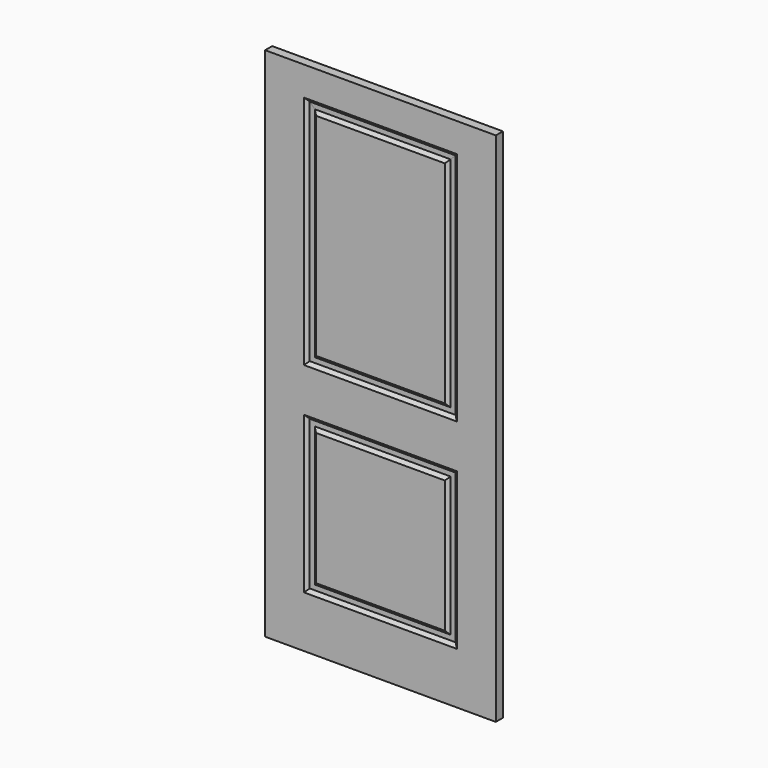
from build123d import *

# Parameters (mm, degrees)
F0_W      = 908.05
F0_H      = 34.925
F1_DEPTH  = 2032
F2_W      = 601.726
F2_H      = 615.442
F3_DEPTH  = 34.926
F8_DEPTH  = 926.592
F9_DEPTH  = 615.442
F11_DEPTH = 34.926
F13_DEPTH = 908.05
F15_DEPTH = 34.926
F17_W     = 506.7300000006
F17_H     = 34.925
F18_DEPTH = 831.596
F19_W     = 506.7300000008
F19_H     = 34.925
F20_DEPTH = 520.446


with BuildPart() as f1:
    # F0 (on Top) → F1 (new body)
    with BuildSketch(Plane.XY):
        with Locations((-454.025, 17.4625)):
            Rectangle(F0_W, F0_H)
    extrude(amount=F1_DEPTH)

    # F2 (on Front) → F3 (cut, through all)
    with BuildSketch(Plane.XZ):
        Polygon((-754.888, 1917.446), (-754.888, 990.854), (-153.162, 990.854), (-153.162, 1917.446), (-454.025, 1917.446), align=None)
        with Locations((-454.025, 510.921)):
            Rectangle(F2_W, F2_H)
    extrude(amount=-F3_DEPTH, mode=Mode.SUBTRACT)

    # F6 (on face) → F8 (join, through all)
    with BuildSketch(Plane(origin=(0, 0, 1917.446), x_dir=(1, 0, 0), z_dir=(0, 0, -1))):
        Polygon((-200.66, -17.4625), (-200.66, -34.925), (-186.8149014921, -24.003), (-176.911, -24.003), (-167.0070985079, -24.003), (-153.162, -34.925), (-153.162, -17.4625), (-153.162, 0), (-167.0070985079, -10.922), (-176.911, -10.922), (-186.8149014921, -10.922), (-200.66, 0), align=None)
        Polygon((-741.0429014921, -24.003), (-731.139, -24.003), (-721.2350985079, -24.003), (-707.39, -34.925), (-707.39, -17.4625), (-707.39, 0), (-721.2350985079, -10.922), (-731.139, -10.922), (-741.0429014921, -10.922), (-754.888, 0), (-754.888, -17.4625), (-754.888, -34.925), align=None)
    extrude(amount=F8_DEPTH)

    # F7 (on face) → F9 (join, through all)
    with BuildSketch(Plane.XY.offset(203.2)):
        Polygon((-200.66, 34.925), (-200.66, 17.4625), (-200.66, 0), (-186.8149014921, 10.922), (-176.911, 10.922), (-167.0070985079, 10.922), (-153.162, 0), (-153.162, 17.4625), (-153.162, 34.925), (-167.0070985079, 24.003), (-176.911, 24.003), (-186.8149014921, 24.003), align=None)
        Polygon((-721.2350985079, 24.003), (-731.139, 24.003), (-741.0429014921, 24.003), (-754.888, 34.925), (-754.888, 17.4625), (-754.888, 0), (-741.0429014921, 10.922), (-731.139, 10.922), (-721.2350985079, 10.922), (-707.39, 0), (-707.39, 17.4625), (-707.39, 34.925), align=None)
    extrude(amount=F9_DEPTH)

    # F10 (on Front) → F11 (cut, through all)
    with BuildSketch(Plane.XZ):
        Polygon((-754.888, 1917.446), (-454.025, 1616.583), (-153.162, 1917.446), (-200.66, 1917.446), (-707.39, 1917.446), align=None)
        Polygon((-153.162, 990.854), (-454.025, 1291.717), (-754.888, 990.854), (-200.66, 990.854), align=None)
        Polygon((-153.162, 818.642), (-200.66, 818.642), (-707.39, 818.642), (-754.888, 818.642), (-454.025, 517.779), align=None)
        Polygon((-754.888, 203.2), (-200.66, 203.2), (-153.162, 203.2), (-454.025, 504.063), align=None)
    extrude(amount=-F11_DEPTH, mode=Mode.SUBTRACT)


with BuildPart() as f13:
    # F12 (on Right) → F13 (new body, through all)
    with BuildSketch(Plane.YZ):
        Polygon((34.925, 1917.446), (0, 1917.446), (10.9219999999, 1903.6009014923), (10.922, 1883.7930985079), (0, 1869.948), (34.925, 1869.948), (24.003, 1883.793098508), (24.003, 1903.6009014921), align=None)
    extrude(amount=-F13_DEPTH)


with BuildPart() as f13b:
    # F12 (on Right) → F13, piece 2 (new body, through all)
    with BuildSketch(Plane.YZ):
        Polygon((10.922, 1004.6990985079), (0, 990.854), (34.925, 990.854), (24.0029999999, 1004.6990985081), (24.003, 1024.5069014921), (34.925, 1038.3520000001), (0, 1038.352), (10.922, 1024.5069014922), align=None)
    extrude(amount=-F13_DEPTH)


with BuildPart() as f13c:
    # F12 (on Right) → F13, piece 3 (new body, through all)
    with BuildSketch(Plane.YZ):
        Polygon((24.003, 784.9890985079), (24.003, 804.7969014922), (34.925, 818.642), (0, 818.642), (10.922, 804.796901492), (10.922, 784.9890985079), (1e-10, 771.1440000001), (34.925, 771.144), align=None)
    extrude(amount=-F13_DEPTH)


with BuildPart() as f13d:
    # F12 (on Right) → F13, piece 4 (new body, through all)
    with BuildSketch(Plane.YZ):
        Polygon((34.925, 203.2), (24.003, 217.0450985079), (24.003, 236.852901492), (34.925, 250.698), (0, 250.698), (10.922, 236.8529014921), (10.922, 217.0450985078), (0, 203.2), align=None)
    extrude(amount=-F13_DEPTH)


with BuildPart() as f15_tool:
    # F14 (on Front) → F15 (new body, through all)
    with BuildSketch(Plane.XZ):
        Polygon((-754.888, 818.642), (-754.888, 203.2), (-454.025, 504.063), (-153.162, 203.2), (-153.162, 818.642), (-454.025, 517.779), align=None)
        Polygon((-153.162, 1917.446), (-454.025, 1616.583), (-754.888, 1917.446), (-754.888, 990.854), (-454.025, 1291.717), (-153.162, 990.854), align=None)
    extrude(amount=-F15_DEPTH)


with BuildPart() as f13_1:
    add(f13.part)

    # F15: cut by f15_tool
    add(f15_tool.part, mode=Mode.SUBTRACT)


with BuildPart() as f13b_1:
    add(f13b.part)

    # F15: cut by f15_tool
    add(f15_tool.part, mode=Mode.SUBTRACT)


with BuildPart() as f13c_1:
    add(f13c.part)

    # F15: cut by f15_tool
    add(f15_tool.part, mode=Mode.SUBTRACT)


with BuildPart() as f13d_1:
    add(f13d.part)

    # F15: cut by f15_tool
    add(f15_tool.part, mode=Mode.SUBTRACT)


with BuildPart() as f1_1:
    add(f1.part)

    # F16: union F13, F13b, F13c, F13d
    add(f13_1.part)
    add(f13b_1.part)
    add(f13c_1.part)
    add(f13d_1.part)

    # F17 (on face) → F18 (join, through all)
    with BuildSketch(Plane.XY.offset(1038.352)):
        with Locations((-454.0250000003, 17.4625)):
            Rectangle(F17_W, F17_H)
    extrude(amount=F18_DEPTH)

    # F19 (on face) → F20 (join, through all)
    with BuildSketch(Plane.XY.offset(250.698)):
        with Locations((-454.0250000004, 17.4625)):
            Rectangle(F19_W, F19_H)
    extrude(amount=F20_DEPTH)


solid = f1_1.part
